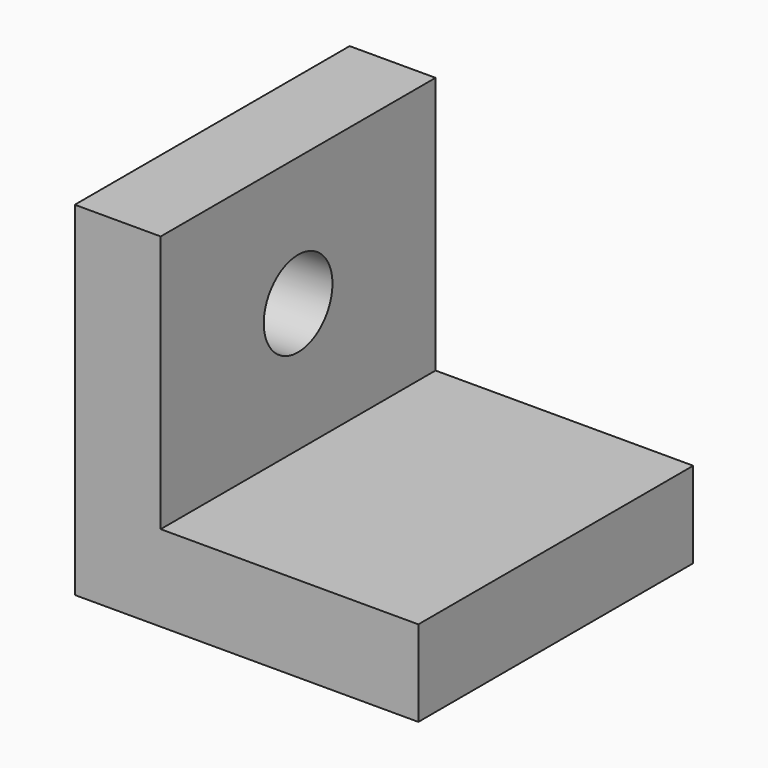
from build123d import *

# Parameters (mm, degrees)
F0_W     = 50.8
F0_H     = 50.8
F1_DEPTH = 50.8
F2_W     = 38.1
F2_H     = 38.1
F3_DEPTH = 50.8
F4_R     = 6.35
F5_DEPTH = 25.4


with BuildPart() as f1:
    # F0 (on Top) → F1 (new body)
    with BuildSketch(Plane.XY):
        with Locations((3.222624, -1.970314)):
            Rectangle(F0_W, F0_H)
    extrude(amount=F1_DEPTH)

    # F2 (on face) → F3 (cut)
    with BuildSketch(Plane.XZ.offset(27.370314)):
        with Locations((9.572624, 31.75)):
            Rectangle(F2_W, F2_H)
    extrude(amount=-F3_DEPTH, mode=Mode.SUBTRACT)

    # F4 (on face) → F5 (cut)
    with BuildSketch(Plane.YZ.offset(-9.477376)):
        with Locations((-1.970314, 31.75)):
            Circle(F4_R)
    extrude(amount=-F5_DEPTH, mode=Mode.SUBTRACT)


solid = f1.part
